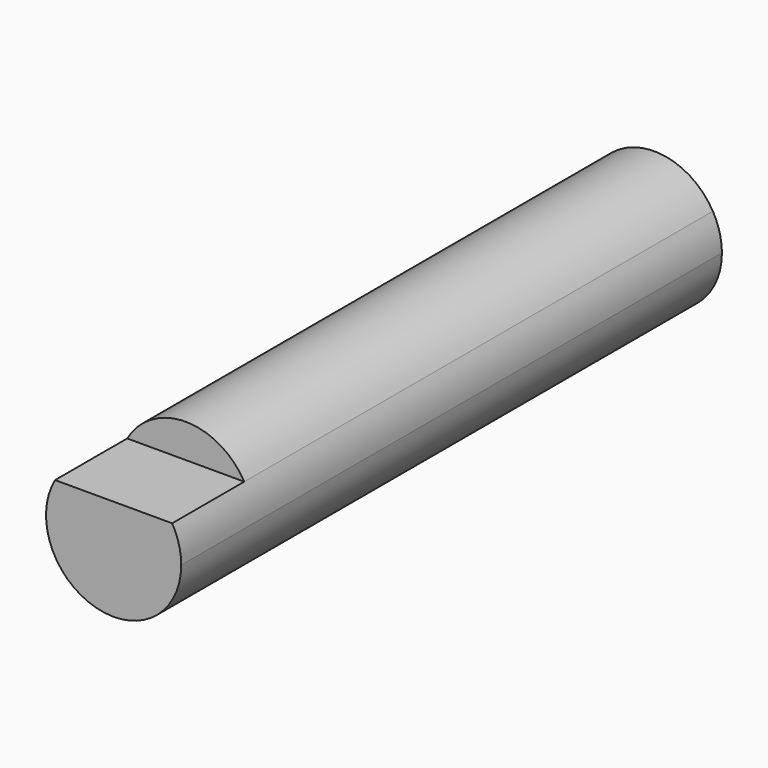
from build123d import *

# Parameters (mm, degrees)
F1_DEPTH = 38.1
F2_DEPTH = 5.08


with BuildPart() as f1:
    # F0 (on Front) → F1 (new body)
    with BuildSketch(Plane.XZ):
        with BuildLine():
            ThreePointArc((-3.299557, 1.905), (-0.986101, -3.680177), (3.81, 0))
            ThreePointArc((3.81, 0), (3.680177, 0.986101), (3.299557, 1.905))
            Line((3.299557, 1.905), (-3.299557, 1.905))
        make_face()
        with BuildLine():
            Line((-3.299557, 1.905), (3.299557, 1.905))
            ThreePointArc((3.299557, 1.905), (0, 3.81), (-3.299557, 1.905))
        make_face()
    extrude(amount=-F1_DEPTH)

    # F0 (on Front) → F2 (cut)
    with BuildSketch(Plane.XZ):
        with BuildLine():
            Line((-3.299557, 1.905), (3.299557, 1.905))
            ThreePointArc((3.299557, 1.905), (0, 3.81), (-3.299557, 1.905))
        make_face()
    extrude(amount=-F2_DEPTH, mode=Mode.SUBTRACT)


solid = f1.part
